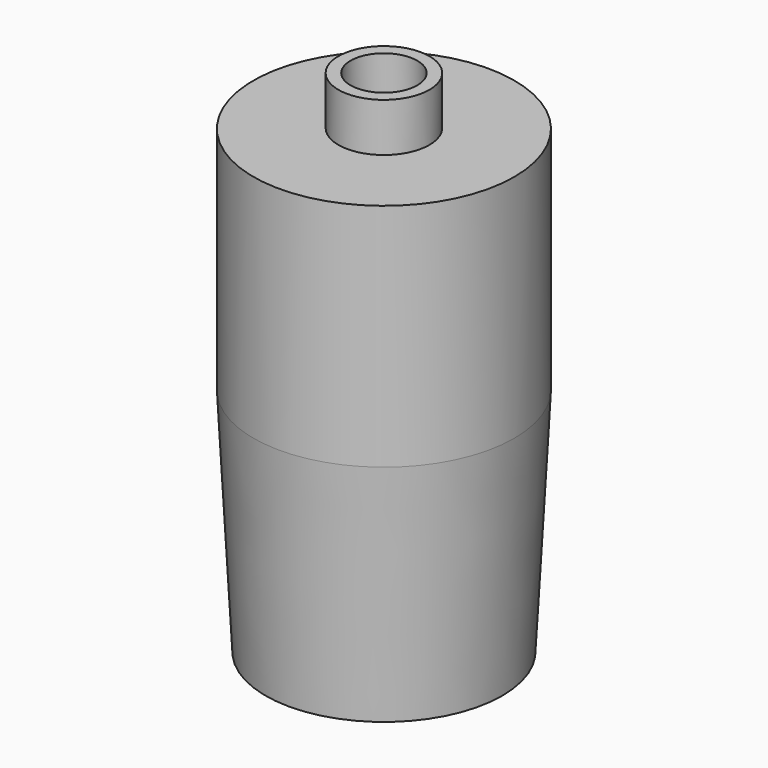
from build123d import *

# Parameters (mm, degrees)
F0_W     = 11.90625
F0_H     = 12.7
F2_T     = -3.175
F3_DEPTH = 60.198


with BuildPart() as f1:
    # F0 (on Front) → F1 (revolve)
    with BuildSketch(Plane.XZ):
        with Locations((5.953125, 127)):
            Rectangle(F0_W, F0_H)
    revolve(axis=Axis((0, 0, 60.325), (0, 0, 1)))

    # F2
    f2_openings = [f1.faces().sort_by_distance(p)[0] for p in [
        (0, 0, 133.35),
    ]]
    offset(amount=F2_T, openings=f2_openings)


with BuildPart() as f1b:
    # F0 (on Front) → F1, piece 2 (revolve)
    with BuildSketch(Plane.XZ):
        Polygon((0, 60.325), (0, 0), (30.95625, 0), (34.13125, 60.325), align=None)
    revolve(axis=Axis((0, 0, 60.325), (0, 0, 1)))

    # F3 (add): a face of the model
    f3_faces = [f1b.faces().sort_by_distance(p)[0] for p in [
        (0, 0, 60.325),
    ]]
    extrude(f3_faces, amount=F3_DEPTH)


solid = Compound([f1.part, f1b.part])
